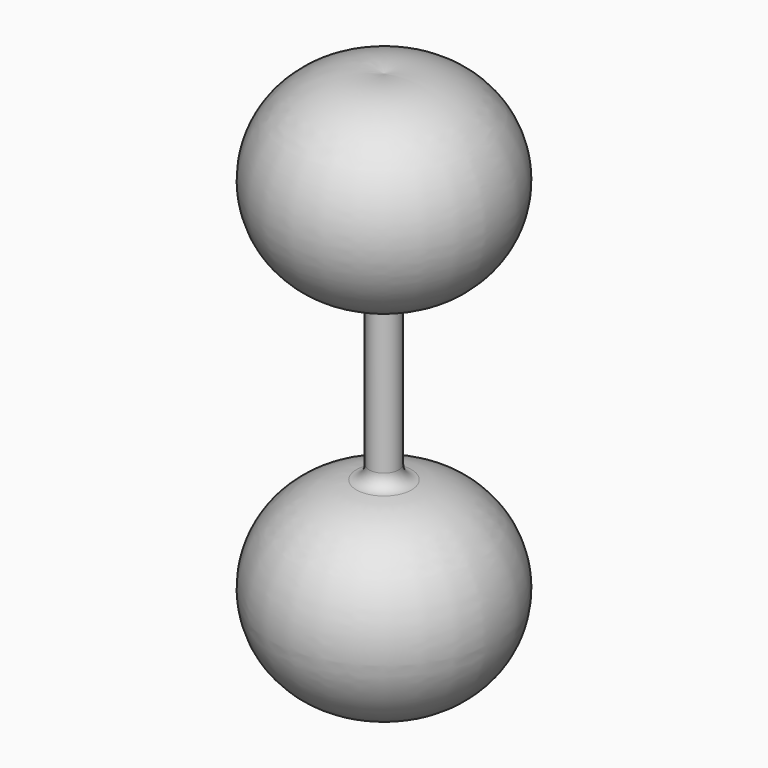
from build123d import *

# Parameters (mm, degrees)
F2_W     = 39.673128
F2_H     = 121.249457
F3_DEPTH = 127


with BuildPart() as f1:
    # F0 (on Front) → F1 (revolve)
    with BuildSketch(Plane.XZ):
        with BuildLine():
            ThreePointArc((12.797097, 39.187018), (53.017156, 89.887298), (0, 127))
            Line((0, 127), (0, -127))
            ThreePointArc((0, -127), (53.017156, -89.887298), (12.797097, -39.187018))
            ThreePointArc((12.797097, -39.187018), (8.65856, -37.155585), (6.985, -32.859842))
            Line((6.985, -32.859842), (6.985, 32.859842))
            ThreePointArc((6.985, 32.859842), (8.65856, 37.155585), (12.797097, 39.187018))
        make_face()
    revolve(axis=Axis((0, 0, 0), (0, 0, -1)))

    # F2 (on Top) → F3 (cut, symmetric)
    with BuildSketch(Plane.XY):
        with Locations((-64.286564, 8.805041)):
            Rectangle(F2_W, F2_H)
    extrude(amount=F3_DEPTH, both=True, mode=Mode.SUBTRACT)


solid = f1.part
